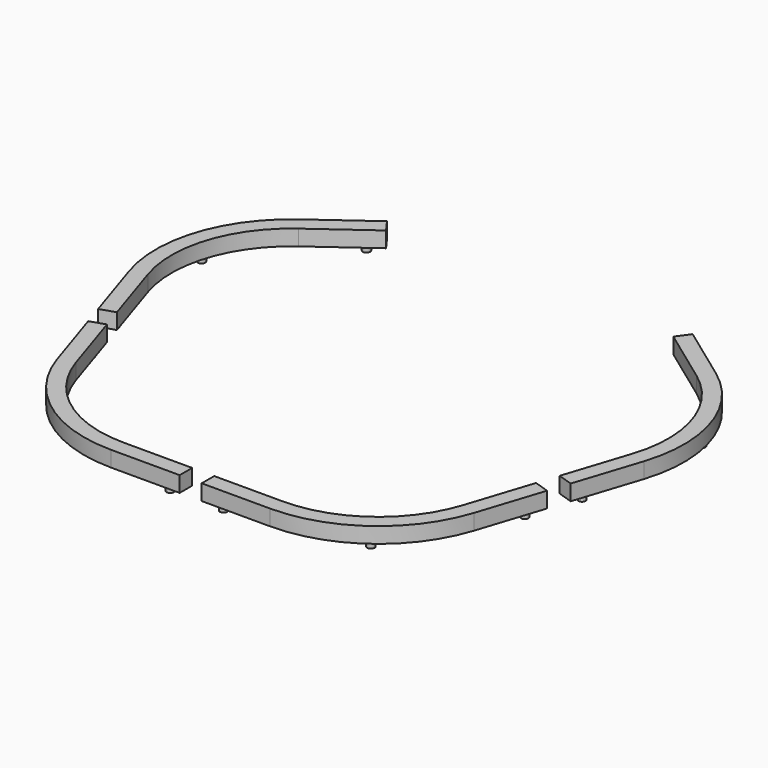
from build123d import *

# Parameters (mm, degrees)
PAD007_DEPTH             = 12.8
SKETCH026_R              = 3.05
PAD008_DEPTH             = 5.2
SKETCH027_R              = 3.05
PAD009_DEPTH             = 5.2
SKETCH028_R              = 3.05
PAD010_DEPTH             = 5.2
ARRAY004_COUNT           = 4
ARRAY004_ANGLE           = 216
ARRAY004_PLACEMENT_ANGLE = 216


with BuildPart() as array004:
    # Sketch025 → Pad007 (new body)
    with BuildSketch(Plane.XY):
        with BuildLine():
            Line((64.9839392466, -187.2), (9, -187.2))
            Line((9, -187.2), (9, -200))
            Line((9, -200), (64.9839392466, -200))
            ThreePointArc((64.9839392466, -200), (129.9678784932, -178.8854382), (170.1301616704, -123.60679775))
            Line((187.4301503097, -70.3629075216), (170.1301616704, -123.60679775))
            Line((187.4301503097, -70.3629075216), (175.2566269011, -66.4074899936))
            Line((157.9566382618, -119.651380222), (175.2566269011, -66.4074899936))
            ThreePointArc((64.9839392466, -187.2), (122.4442272638, -168.530020672), (157.9566382618, -119.651380222))
        make_face()
    extrude(amount=PAD007_DEPTH)

    # Sketch026 (on Face9 of Pad007) → Pad008 (join)
    with BuildSketch(Plane(origin=(0, 0, 0), x_dir=(1, 0, 0), z_dir=(0, 0, -1))):
        with Locations((21.8, 193.6)):
            Circle(SKETCH026_R)
    extrude(amount=PAD008_DEPTH)

    # Sketch027 (on Face4 of Pad008) → Pad009 (join)
    with BuildSketch(Plane(origin=(0, 0, 0), x_dir=(1, 0, 0), z_dir=(0, 0, -1))):
        with Locations((126.2060528785, 173.707729436)):
            Circle(SKETCH027_R)
    extrude(amount=PAD009_DEPTH)

    # Sketch028 (on Face4 of Pad009) → Pad010 (join)
    with BuildSketch(Plane(origin=(0, 0, 0), x_dir=(1, 0, 0), z_dir=(0, 0, -1))):
        with Locations((177.3879710774, 80.5587221662)):
            Circle(SKETCH028_R)
    extrude(amount=PAD010_DEPTH)


with BuildPart() as array004_copy1:
    # Array004: instance of Array004
    add(array004.part.rotate(Axis((0, 0, 0), (0, 0, 1)), 1 * ARRAY004_ANGLE / (ARRAY004_COUNT - 1)))


with BuildPart() as array004_copy2:
    # Array004: instance of Array004
    add(array004.part.rotate(Axis((0, 0, 0), (0, 0, 1)), 2 * ARRAY004_ANGLE / (ARRAY004_COUNT - 1)))


with BuildPart() as array004_copy3:
    # Array004: instance of Array004
    add(array004.part.rotate(Axis((0, 0, 0), (0, 0, 1)), 3 * ARRAY004_ANGLE / (ARRAY004_COUNT - 1)))


with BuildPart() as array004_1:
    # Array004 placement: moved
    add(array004.part.moved(Location((0, 0, 272.733))).rotate(Axis((0, 0, 272.733), (0, 0, 1)), ARRAY004_PLACEMENT_ANGLE))


with BuildPart() as array004_copy1_1:
    # Array004 placement: moved
    add(array004_copy1.part.moved(Location((0, 0, 272.733))).rotate(Axis((0, 0, 272.733), (0, 0, 1)), ARRAY004_PLACEMENT_ANGLE))


with BuildPart() as array004_copy2_1:
    # Array004 placement: moved
    add(array004_copy2.part.moved(Location((0, 0, 272.733))).rotate(Axis((0, 0, 272.733), (0, 0, 1)), ARRAY004_PLACEMENT_ANGLE))


with BuildPart() as array004_copy3_1:
    # Array004 placement: moved
    add(array004_copy3.part.moved(Location((0, 0, 272.733))).rotate(Axis((0, 0, 272.733), (0, 0, 1)), ARRAY004_PLACEMENT_ANGLE))


solid = Compound([array004_1.part, array004_copy1_1.part, array004_copy2_1.part, array004_copy3_1.part])
